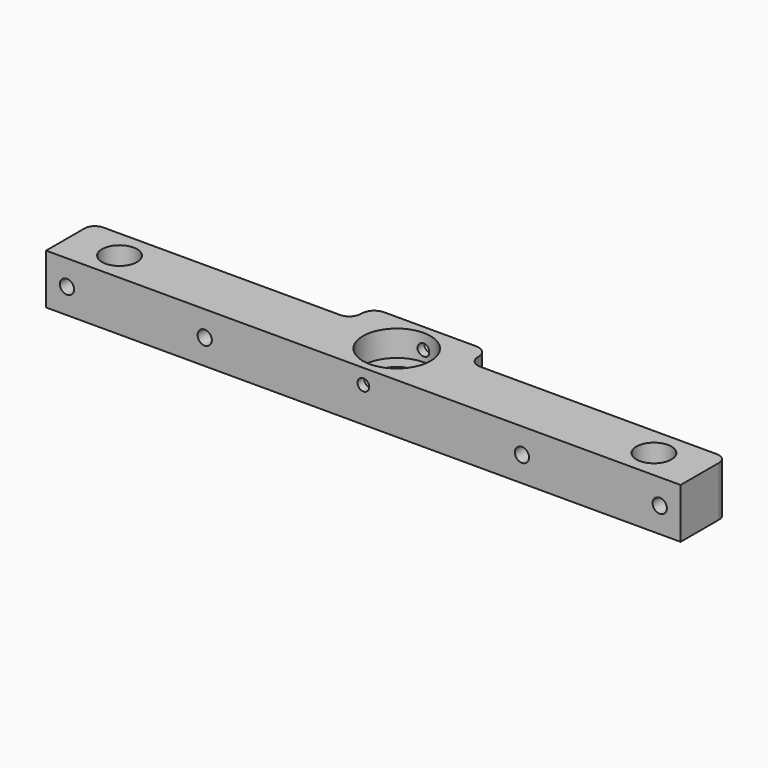
from build123d import *

# Parameters (mm, degrees)
BOX_W           = 152
BOX_H           = 20
BOX_DEPTH       = 12
SKETCH_R        = 1.7
POCKET_DEPTH    = 20.001
SKETCH001_R     = 4.2
SKETCH001_R_2   = 4.5
SKETCH001_W     = 62
SKETCH001_H     = 8
SKETCH001_H_2   = 9.357648
POCKET001_DEPTH = 12.001
SKETCH002_R     = 8.1
POCKET002_DEPTH = 6.2
SKETCH004_R     = 1.4
POCKET003_DEPTH = 5
SKETCH005_R     = 1.4
POCKET004_DEPTH = 5
SKETCH003_R     = 1.4
POCKET005_DEPTH = 20.001
FILLET_R        = 2.5
FILLET001_R     = 3
FILLET002_R     = 2.8


with BuildPart() as part:
    # Box → Box (new body)
    with BuildSketch(Plane.XY):
        with Locations((76, 10)):
            Rectangle(BOX_W, BOX_H)
    extrude(amount=BOX_DEPTH)

    # Sketch → Pocket (cut, through all)
    with BuildSketch(Plane.XZ):
        with Locations((5, 6)):
            Circle(SKETCH_R)
        with Locations((38, 6)):
            Circle(SKETCH_R)
        with Locations((114, 6)):
            Circle(SKETCH_R)
        with Locations((147, 6)):
            Circle(SKETCH_R)
    extrude(amount=-POCKET_DEPTH, mode=Mode.SUBTRACT)

    # Sketch001 → Pocket001 (cut, through all)
    with BuildSketch(Plane.XY.offset(12)):
        with Locations((12, 7)):
            Circle(SKETCH001_R)
        with Locations((140, 7)):
            Circle(SKETCH001_R)
        with Locations((76, 10)):
            Circle(SKETCH001_R_2)
        with Locations((31, 18)):
            Rectangle(SKETCH001_W, SKETCH001_H)
        with Locations((121, 18.678824)):
            Rectangle(SKETCH001_W, SKETCH001_H_2)
    extrude(amount=-POCKET001_DEPTH, mode=Mode.SUBTRACT)

    # Sketch002 → Pocket002 (cut)
    with BuildSketch(Plane.XY.offset(12)):
        with Locations((76, 10)):
            Circle(SKETCH002_R)
    extrude(amount=-POCKET002_DEPTH, mode=Mode.SUBTRACT)

    # Sketch004 → Pocket003 (cut)
    with BuildSketch(Plane(origin=(0, 14, 0), x_dir=(-1, 0, 0), z_dir=(0, 1, 0))):
        with Locations((-12, 6)):
            Circle(SKETCH004_R)
    extrude(amount=-POCKET003_DEPTH, mode=Mode.SUBTRACT)

    # Sketch005 → Pocket004 (cut)
    with BuildSketch(Plane(origin=(0, 14, 0), x_dir=(-1, 0, 0), z_dir=(0, 1, 0))):
        with Locations((-140, 6)):
            Circle(SKETCH005_R)
    extrude(amount=-POCKET004_DEPTH, mode=Mode.SUBTRACT)

    # Sketch003 → Pocket005 (cut, through all)
    with BuildSketch(Plane(origin=(0, 20, 0), x_dir=(-1, 0, 0), z_dir=(0, 1, 0))):
        with Locations((-76, 8.4)):
            Circle(SKETCH003_R)
    extrude(amount=-POCKET005_DEPTH, mode=Mode.SUBTRACT)

    # Fillet
    fillet_edges = [part.edges().sort_by_distance(p)[0] for p in [
        (152, 14, 6),
        (0, 14, 6),
    ]]
    fillet(fillet_edges, radius=FILLET_R)

    # Fillet001
    fillet001_edges = [part.edges().sort_by_distance(p)[0] for p in [
        (90, 20, 6),
        (62, 20, 6),
    ]]
    fillet(fillet001_edges, radius=FILLET001_R)

    # Fillet002
    fillet002_edges = [part.edges().sort_by_distance(p)[0] for p in [
        (62, 14, 6),
        (90, 14, 6),
    ]]
    fillet(fillet002_edges, radius=FILLET002_R)


solid = part.part
